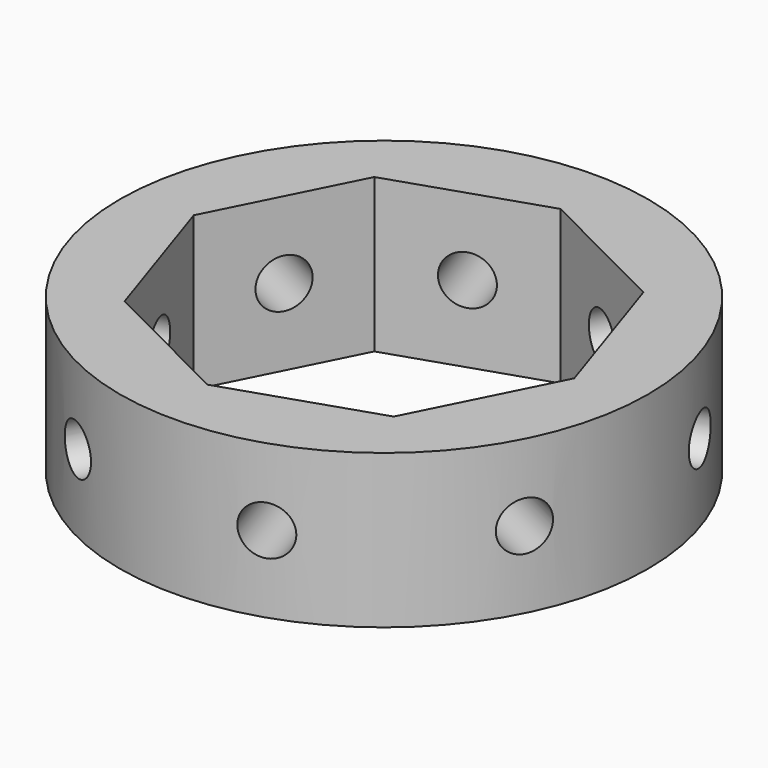
from build123d import *

# Parameters (mm, degrees)
F0_R          = 43
F1_DEPTH      = 25
F5_R          = 4
F6_DEPTH      = 20
F6_DEPTH_BACK = 79
F4_R          = 4
F7_DEPTH      = 20
F7_DEPTH_BACK = 80
F3_R          = 4
F8_DEPTH      = 93.1
F8_DEPTH_BACK = 25
F2_R          = 4
F9_DEPTH      = 82.3
F9_DEPTH_BACK = 25


with BuildPart() as f1:
    # F0 (on Top) → F1 (new body)
    with BuildSketch(Plane.XY):
        Circle(F0_R)
        Polygon((-32.9113515503, 2.4172172296), (-21.5626091646, 24.9810705538), (2.4172172296, 32.9113515503), (24.9810705538, 21.5626091646), (32.9113515503, -2.4172172296), (21.5626091646, -24.9810705538), (-2.4172172296, -32.9113515503), (-24.9810705538, -21.5626091646), align=None, mode=Mode.SUBTRACT)
    extrude(amount=F1_DEPTH)

    # F5 (on face) → F6 (cut, two sides)
    with BuildSketch(Plane(origin=(-13.6991438917, -27.2369803574, 0), x_dir=(-0.8933665181, 0.4493286818, 0), z_dir=(0.4493286818, 0.8933665181, 0))) as f6_sk:
        with Locations((0, 12.5)):
            Circle(F5_R)
    extrude(amount=-F6_DEPTH, mode=Mode.SUBTRACT)
    extrude(f6_sk.sketch, amount=F6_DEPTH_BACK, mode=Mode.SUBTRACT)

    # F4 (on face) → F7 (cut, two sides)
    with BuildSketch(Plane(origin=(-28.946211052, -9.5726959675, 0), x_dir=(-0.3139821652, 0.9494288809, 0), z_dir=(0.9494288809, 0.3139821652, 0))) as f7_sk:
        with Locations((0, 12.5)):
            Circle(F4_R)
    extrude(amount=-F7_DEPTH, mode=Mode.SUBTRACT)
    extrude(f7_sk.sketch, amount=F7_DEPTH_BACK, mode=Mode.SUBTRACT)

    # F3 (on face) → F8 (cut, two sides)
    with BuildSketch(Plane(origin=(-27.2369803574, 13.6991438917, 0), x_dir=(0.4493286818, 0.8933665181, 0), z_dir=(0.8933665181, -0.4493286818, 0))) as f8_sk:
        with Locations((0, 12.5)):
            Circle(F3_R)
    extrude(amount=F8_DEPTH, mode=Mode.SUBTRACT)
    extrude(f8_sk.sketch, amount=-F8_DEPTH_BACK, mode=Mode.SUBTRACT)

    # F2 (on face) → F9 (cut, two sides)
    with BuildSketch(Plane(origin=(-9.5726959675, 28.946211052, 0), x_dir=(0.9494288809, 0.3139821652, 0), z_dir=(0.3139821652, -0.9494288809, 0))) as f9_sk:
        with Locations((0, 12.5)):
            Circle(F2_R)
    extrude(amount=F9_DEPTH, mode=Mode.SUBTRACT)
    extrude(f9_sk.sketch, amount=-F9_DEPTH_BACK, mode=Mode.SUBTRACT)


solid = f1.part
